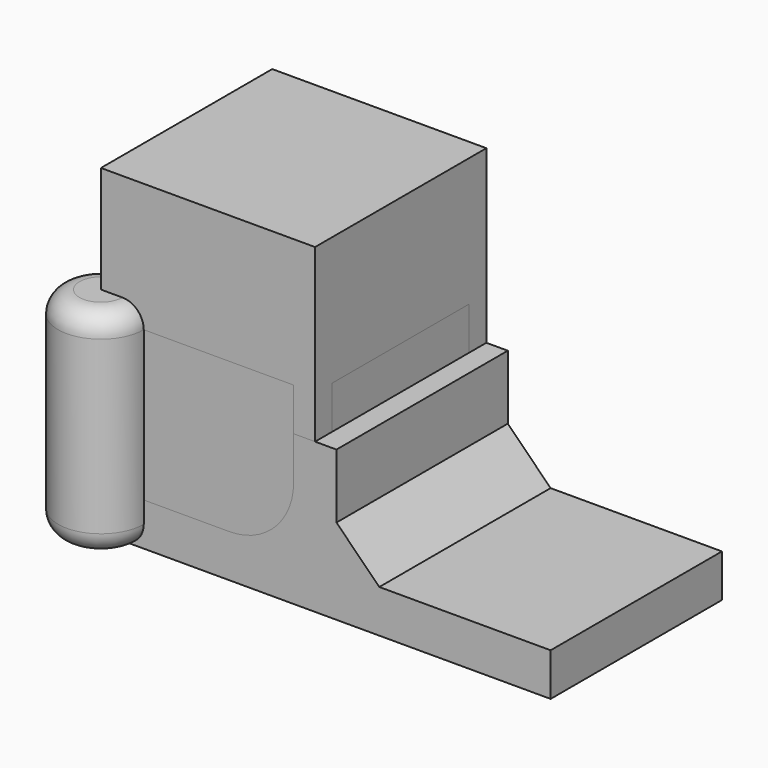
from build123d import *

# Parameters (mm, degrees)
BOX_W             = 10
BOX_H             = 10
BOX_DEPTH         = 10
FILLET_R          = 1
BOX001_W          = 10
BOX001_H          = 10
BOX001_DEPTH      = 10
BOX002_W          = 10
BOX002_H          = 10
BOX002_DEPTH      = 10
CHAMFER_SIZE      = 1
BOX003_W          = 10
BOX003_H          = 10
BOX003_DEPTH      = 10
CYLINDER_R        = 2
CYLINDER_DEPTH    = 10
BOX004_W          = 10
BOX004_H          = 10
BOX004_DEPTH      = 10
CHAMFER001_SIZE   = 1
CYLINDER001_R     = 2
CYLINDER001_DEPTH = 10
FILLET001_R       = 1
CYLINDER002_R     = 2
CYLINDER002_DEPTH = 10
CHAMFER002_SIZE   = 1
BOX007_W          = 10
BOX007_H          = 10
BOX007_DEPTH      = 5
BOX006_W          = 10
BOX006_H          = 10
BOX006_DEPTH      = 5
BOX005_W          = 20
BOX005_H          = 10
BOX005_DEPTH      = 7
CHAMFER003_SIZE   = 2
FILLET002_R       = 3


with BuildPart() as fillet_body:
    # Box → Box (new body)
    with BuildSketch(Plane.XY):
        with Locations((5, 5)):
            Rectangle(BOX_W, BOX_H)
    extrude(amount=BOX_DEPTH)

    # Fillet
    fillet_edges = [fillet_body.edges().sort_by_distance(p)[0] for p in [
        (0, 0, 5),
        (0, 5, 10),
        (0, 10, 5),
        (0, 5, 0),
        (10, 0, 5),
        (10, 5, 10),
        (10, 10, 5),
        (10, 5, 0),
        (5, 0, 0),
        (5, 0, 10),
        (5, 10, 0),
        (5, 10, 10),
    ]]
    fillet(fillet_edges, radius=FILLET_R)


with BuildPart() as cut:
    # Box001 → Box001 (new body)
    with BuildSketch(Plane.XY):
        with Locations((5, 5)):
            Rectangle(BOX001_W, BOX001_H)
    extrude(amount=BOX001_DEPTH)

    # Cut: cut Fillet body
    add(fillet_body.part, mode=Mode.SUBTRACT)


with BuildPart() as chamfer_body:
    # Box002 → Box002 (new body)
    with BuildSketch(Plane.XY):
        with Locations((5, 5)):
            Rectangle(BOX002_W, BOX002_H)
    extrude(amount=BOX002_DEPTH)

    # Chamfer
    chamfer_edges = [chamfer_body.edges().sort_by_distance(p)[0] for p in [
        (0, 0, 5),
        (0, 5, 10),
        (0, 10, 5),
        (0, 5, 0),
        (10, 0, 5),
        (10, 5, 10),
        (10, 10, 5),
        (10, 5, 0),
        (5, 0, 0),
        (5, 0, 10),
        (5, 10, 0),
        (5, 10, 10),
    ]]
    chamfer(chamfer_edges, length=CHAMFER_SIZE)


with BuildPart() as cut001:
    # Box003 → Box003 (new body)
    with BuildSketch(Plane.XY.offset(5)):
        with Locations((5, 5)):
            Rectangle(BOX003_W, BOX003_H)
    extrude(amount=BOX003_DEPTH)

    # Cut001: cut Chamfer body
    add(chamfer_body.part, mode=Mode.SUBTRACT)


with BuildPart() as cilindro:
    # Cylinder → Cylinder (new body)
    with BuildSketch(Plane(origin=(5, 5, 0), x_dir=(1, 0, 0), z_dir=(0, 0, 1))):
        Circle(CYLINDER_R)
    extrude(amount=CYLINDER_DEPTH)


with BuildPart() as chamfer001:
    # Box004 → Box004 (new body)
    with BuildSketch(Plane.XY):
        with Locations((5, 5)):
            Rectangle(BOX004_W, BOX004_H)
    extrude(amount=BOX004_DEPTH)

    # Cut002: cut Cilindro
    add(cilindro.part, mode=Mode.SUBTRACT)

    # Chamfer001
    chamfer001_edges = [chamfer001.edges().sort_by_distance(p)[0] for p in [
        (0, 0, 5),
        (0, 5, 10),
        (0, 10, 5),
        (0, 5, 0),
        (5, 0, 0),
        (10, 0, 5),
        (5, 0, 10),
        (5, 10, 10),
        (10, 5, 10),
        (3, 5, 10),
        (5, 10, 0),
        (10, 10, 5),
        (10, 5, 0),
        (3, 5, 0),
    ]]
    chamfer(chamfer001_edges, length=CHAMFER001_SIZE)


with BuildPart() as fillet001:
    # Cylinder001 → Cylinder001 (new body)
    with BuildSketch(Plane.XY):
        Circle(CYLINDER001_R)
    extrude(amount=CYLINDER001_DEPTH)

    # Fillet001
    fillet001_edges = [fillet001.edges().sort_by_distance(p)[0] for p in [
        (-2, 0, 10),
        (-2, 0, 0),
    ]]
    fillet(fillet001_edges, radius=FILLET001_R)


with BuildPart() as chamfer002:
    # Cylinder002 → Cylinder002 (new body)
    with BuildSketch(Plane.XY):
        Circle(CYLINDER002_R)
    extrude(amount=CYLINDER002_DEPTH)

    # Chamfer002
    chamfer002_edges = [chamfer002.edges().sort_by_distance(p)[0] for p in [
        (-2, 0, 10),
        (-2, 0, 0),
    ]]
    chamfer(chamfer002_edges, length=CHAMFER002_SIZE)


with BuildPart() as cubo:
    # Box007 → Box007 (new body)
    with BuildSketch(Plane(origin=(11, 0, 2), x_dir=(1, 0, 0), z_dir=(0, 0, 1))):
        with Locations((5, 5)):
            Rectangle(BOX007_W, BOX007_H)
    extrude(amount=BOX007_DEPTH)


with BuildPart() as fusion:
    # Box006 → Box006 (new body)
    with BuildSketch(Plane(origin=(-1, 0, 2), x_dir=(1, 0, 0), z_dir=(0, 0, 1))):
        with Locations((5, 5)):
            Rectangle(BOX006_W, BOX006_H)
    extrude(amount=BOX006_DEPTH)

    # Fusion: union Cubo
    add(cubo.part)


with BuildPart() as fillet002:
    # Box005 → Box005 (new body)
    with BuildSketch(Plane(origin=(1, 0, 0), x_dir=(1, 0, 0), z_dir=(0, 0, 1))):
        with Locations((10, 5)):
            Rectangle(BOX005_W, BOX005_H)
    extrude(amount=BOX005_DEPTH)

    # Cut003: cut Fusion
    add(fusion.part, mode=Mode.SUBTRACT)

    # Chamfer003
    chamfer003_edges = [fillet002.edges().sort_by_distance(p)[0] for p in [
        (11, 5, 2),
    ]]
    chamfer(chamfer003_edges, length=CHAMFER003_SIZE)

    # Fillet002
    fillet002_edges = [fillet002.edges().sort_by_distance(p)[0] for p in [
        (9, 5, 2),
    ]]
    fillet(fillet002_edges, radius=FILLET002_R)


solid = Compound([cut.part, cut001.part, chamfer001.part, fillet001.part, chamfer002.part, fillet002.part])
